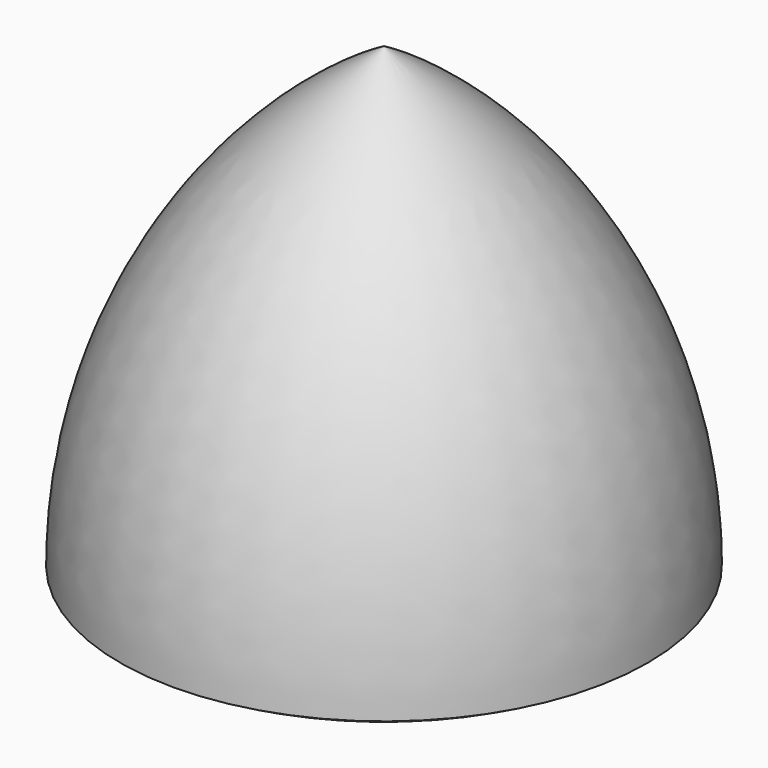
from build123d import *


with BuildPart() as f1:
    # F0 (on Front) → F1 (revolve)
    with BuildSketch(Plane.XZ):
        Polygon((-63.5, 0), (-63.5, 109.985226), (-127, 0), align=None)
        with BuildLine():
            Line((-127, 0), (-63.5, 109.985226))
            ThreePointArc((-63.5, 109.985226), (-109.985226, 63.5), (-127, 0))
        make_face()
        with BuildLine():
            Line((-63.5, -17.014774), (-63.5, 0))
            Line((-63.5, 0), (-127, 0))
            ThreePointArc((-127, 0), (-96.370019, -12.687354), (-63.5, -17.014774))
        make_face()
    revolve(axis=Axis((-63.5, 0, 46.485226), (0, 0, -1)))


solid = f1.part
